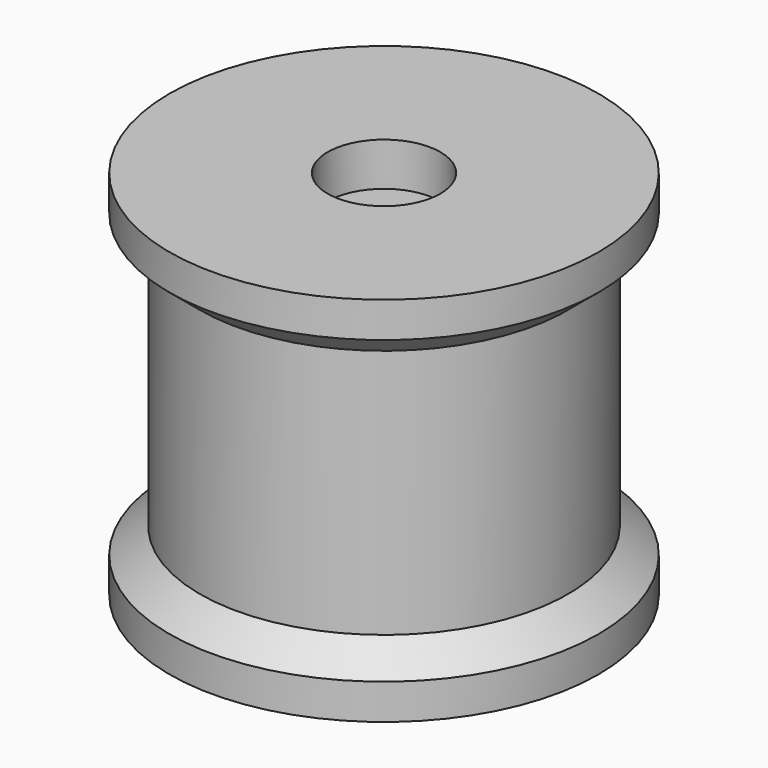
from build123d import *

# Parameters (mm, degrees)
F2_R     = 5
F3_DEPTH = 1000
F2_R_2   = 13
F4_DEPTH = 10
F5_R     = 13
F5_R_2   = 5
F6_DEPTH = 10


with BuildPart() as f1:
    # F0 (on Front) → F1 (revolve)
    with BuildSketch(Plane.XZ):
        Polygon((0, 0), (0, 42.870745), (-49.496219, 42.870745), (-49.496219, 34.686334), (-42.481005, 28.84032), (-42.481005, 0), (-42.481005, -28.84032), (-49.496219, -34.686334), (-49.496219, -42.870745), (0, -42.870745), align=None)
    revolve(axis=Axis((0, 0, 21.435373), (0, 0, -1)))

    # F2 (on face) → F3 (cut)
    with BuildSketch(Plane.XY.offset(42.870745)):
        Circle(F2_R)
    extrude(amount=-F3_DEPTH, mode=Mode.SUBTRACT)

    # F2 (on face) → F4 (cut)
    with BuildSketch(Plane.XY.offset(42.870745)):
        Circle(F2_R_2)
        Circle(F2_R, mode=Mode.SUBTRACT)
    extrude(amount=-F4_DEPTH, mode=Mode.SUBTRACT)

    # F5 (on face) → F6 (cut)
    with BuildSketch(Plane(origin=(0, 0, -42.870745), x_dir=(1, 0, 0), z_dir=(0, 0, -1))):
        Circle(F5_R)
        Circle(F5_R_2, mode=Mode.SUBTRACT)
    extrude(amount=-F6_DEPTH, mode=Mode.SUBTRACT)


solid = f1.part
